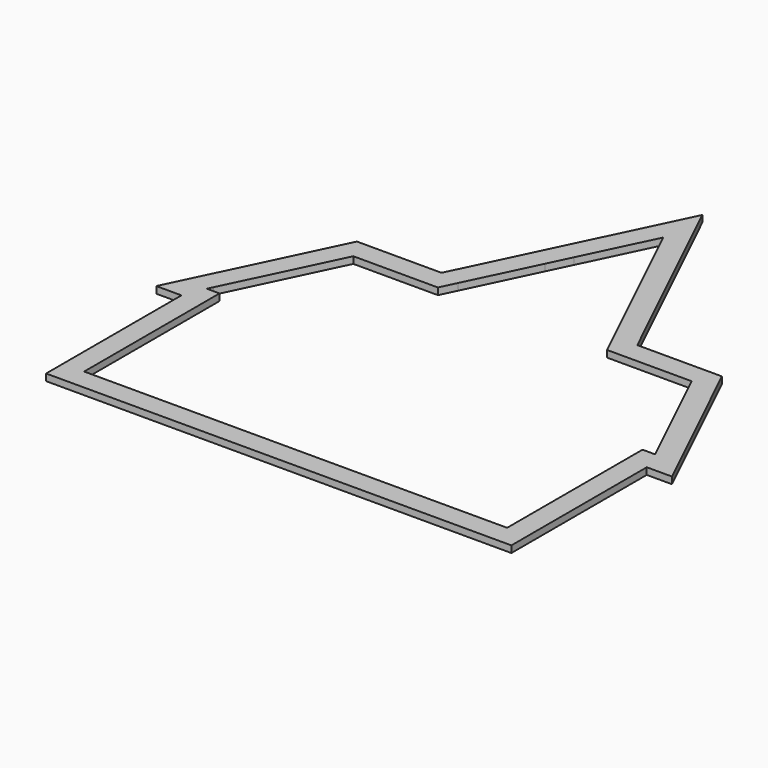
from build123d import *

# Parameters (mm, degrees)
F1_DEPTH = 2.032


with BuildPart() as f1:
    # F0 (on Top) → F1 (new body)
    with BuildSketch(Plane.XY):
        Polygon((59.5508336694, 40.6870045497), (34.1508336694, 40.6870045497), (4.7581588602, 101.8170116116), (-24.634515949, 40.6870045497), (-50.034515949, 40.6870045497), (-67.0533862158, 5.2916665496), (-72.6509597748, -6.3499997298), (-65.0918408696, -6.3499997298), (-65.0918408696, -57.1499997298), (74.60815859, -57.1499997298), (74.60815859, -6.3499997298), (82.1672774952, -6.3499997298), (76.5697039363, 5.2916665496), align=None)
        Polygon((4.7581588602, 91.852396227), (31.4358146836, 36.3690045497), (56.8358146836, 36.3690045497), (72.6781767233, 3.4205332163), (75.2998765312, -2.0319997298), (70.29015859, -2.0319997298), (70.29015859, -52.8319997298), (-60.7738408696, -52.8319997298), (-60.7738408696, -2.0319997298), (-65.7835588108, -2.0319997298), (-63.1618590029, 3.4205332163), (-47.3194969632, 36.3690045497), (-23.4601999485, 36.3690045497), (-21.9194969632, 36.3690045497), align=None, mode=Mode.SUBTRACT)
        Polygon((56.8358146836, 36.3690045497), (31.4358146836, 36.3690045497), (4.7581588602, 91.852396227), (-21.9194969632, 36.3690045497), (-23.4601999485, 36.3690045497), (-47.3194969632, 36.3690045497), (-63.1618590029, 3.4205332163), (-65.7835588108, -2.0319997298), (-60.7738408696, -2.0319997298), (-60.7738408696, -52.8319997298), (70.29015859, -52.8319997298), (70.29015859, -2.0319997298), (75.2998765312, -2.0319997298), (72.6781767233, 3.4205332163), align=None)
        Polygon((68.2581588602, -50.8), (-58.7418411398, -50.8), (-58.7418411398, 0), (-62.5518411398, 0), (-61.8190678495, 1.524), (-46.0418411398, 34.3370048199), (-22.332856425, 34.3370048199), (-20.6418411398, 34.3370048199), (-18.376729311, 39.0479167388), (-8.5820728345, 59.4185506966), (-5.3240396144, 66.1945108652), (4.7581588602, 87.1631660812), (14.8403573348, 66.1945108652), (18.0983905549, 59.4185506966), (27.8930470314, 39.0479167388), (30.1581588602, 34.3370048199), (31.8491741455, 34.3370048199), (55.5581588602, 34.3370048199), (71.3353855699, 1.524), (72.0681588602, 0), (68.2581588602, 0), align=None, mode=Mode.SUBTRACT)
    extrude(amount=-F1_DEPTH)


solid = f1.part
